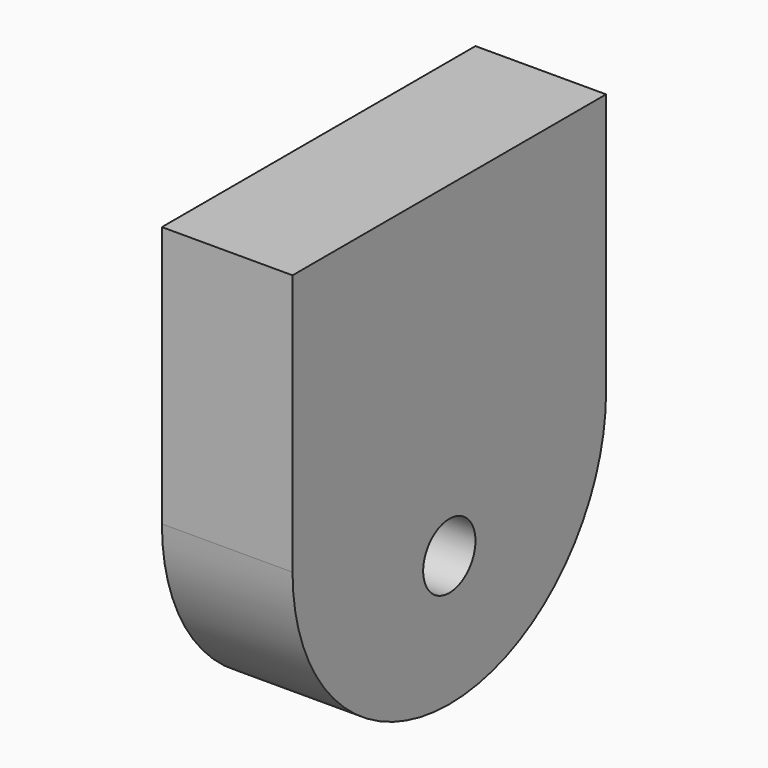
from build123d import *

# Parameters (mm, degrees)
F0_R     = 1.5875
F1_DEPTH = 6.35


with BuildPart() as f1:
    # F0 (on Right) → F1 (new body)
    with BuildSketch(Plane.YZ):
        with BuildLine():
            Line((0, 12.7), (0, 0))
            ThreePointArc((0, 0), (9.525, -9.525), (19.05, 0))
            Line((19.05, 0), (19.05, 12.7))
            Line((19.05, 12.7), (0, 12.7))
        make_face()
        with Locations((9.525, -3.175)):
            Circle(F0_R, mode=Mode.SUBTRACT)
    extrude(amount=F1_DEPTH)


solid = f1.part
